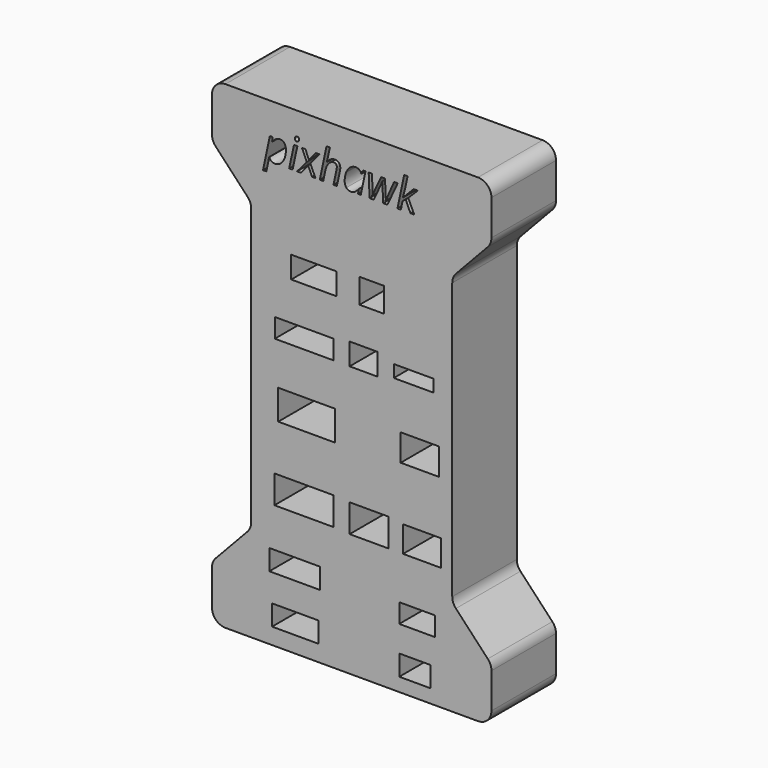
from build123d import *

# Parameters (mm, degrees)
F0_W     = 8.7805232033
F0_H     = 3.873758018
F0_W_2   = 9.555274155
F0_H_2   = 3.873763606
F0_W_3   = 11.139257811
F0_H_3   = 5.2957143635
F0_W_4   = 10.6984956656
F0_H_4   = 5.6368411751
F0_W_5   = 5.9397630394
F0_W_6   = 6.7145144567
F0_H_5   = 3.615507856
F0_W_7   = 7.3465732858
F0_H_6   = 5.2957125008
F0_W_8   = 7.2473669425
F0_H_7   = 5.0616537919
F0_W_9   = 7.1218190715
F0_H_8   = 4.9304906279
F0_W_10  = 11.1047781538
F0_H_9   = 3.615509253
F0_W_11  = 8.5222709458
F0_H_10  = 4.1320119053
F0_W_12  = 5.2375169471
F0_H_11  = 4.1320105083
F0_W_13  = 7.4892668054
F0_H_12  = 2.3242561147
F0_W_14  = 4.6485104831
F0_H_13  = 4.6485122293
F1_DEPTH = 15.24
F2_R     = 2.54


with BuildPart() as f1:
    # F0 (on Front) → F1 (new body)
    with BuildSketch(Plane.XZ):
        Polygon((17.9664100287, -17.1944648609), (17.9664100287, 9.5204214048), (-20.0014543952, 9.5204214048), (-20.0014543952, -17.1944648609), (-27.4009296666, -25.0746466308), (-27.4009296666, -35.2989864186), (25.3658853001, -35.2989864186), (25.3658853001, -25.0746466308), align=None)
        with Locations((-11.6681393676, -30.2961928356)):
            Rectangle(F0_W, F0_H, mode=Mode.SUBTRACT)
        with Locations((-11.7972642158, -21.257421333)):
            Rectangle(F0_W_2, F0_H_2, mode=Mode.SUBTRACT)
        with Locations((-10.042487874, -9.2596154247)):
            Rectangle(F0_W_3, F0_H_3, mode=Mode.SUBTRACT)
        with Locations((-9.5437752291, 5.0418527861)):
            Rectangle(F0_W_4, F0_H_4, mode=Mode.SUBTRACT)
        with Locations((10.928792183, -30.8126931597)):
            Rectangle(F0_W_5, F0_H, mode=Mode.SUBTRACT)
        with Locations((11.3161678917, -22.1612978313)):
            Rectangle(F0_W_6, F0_H_5, mode=Mode.SUBTRACT)
        with Locations((2.2626684538, -9.4422263611)):
            Rectangle(F0_W_7, F0_H_6, mode=Mode.SUBTRACT)
        with Locations((11.8532159856, 5.4444841406)):
            Rectangle(F0_W_8, F0_H_7, mode=Mode.SUBTRACT)
        with Locations((12.236027748, -9.6248372976)):
            Rectangle(F0_W_9, F0_H_8, mode=Mode.SUBTRACT)
        Polygon((-20.0014543952, 9.5204214048), (17.9664100287, 9.5204214048), (17.9664100287, 36.9888431742), (25.3658853001, 44.869024944), (25.3658853001, 55.0933647319), (-27.4009296666, 55.0933647319), (-27.4009296666, 44.869024944), (-20.0014543952, 36.9888431742), align=None)
        with Locations((-9.9895106371, 17.6093027875)):
            Rectangle(F0_W_10, F0_H_9, mode=Mode.SUBTRACT)
        with Locations((-8.1817557777, 28.7140809413)):
            Rectangle(F0_W_11, F0_H_10, mode=Mode.SUBTRACT)
        with BuildLine():
            add(Edge.make_bspline(
                [(-14.4447284097, 45.2859506099), (-14.915105244, 44.9061968355), (-15.5081622748, 44.9061968355)],
                knots=[0, 0, 0, 1, 1, 1], degree=2))
            add(Edge.make_bspline(
                [(-15.5081622748, 44.9061968355), (-15.8817512152, 44.9061968355), (-16.1628676456, 45.0991561397)],
                knots=[0, 0, 0, 1, 1, 1], degree=2))
            add(Edge.make_bspline(
                [(-16.1628676456, 45.0991561397), (-16.443984076, 45.2921154439), (-16.5981049261, 45.6385791148)],
                knots=[0, 0, 0, 1, 1, 1], degree=2))
            Line((-16.5981049261, 45.6385791148), (-16.6363268969, 45.6385791148))
            Line((-16.6363268969, 45.6385791148), (-16.6523554653, 45.4930890324))
            add(Edge.make_bspline(
                [(-16.6523554653, 45.4930890324), (-16.6634521665, 45.3956846552), (-16.6924268863, 45.2224528197)],
                knots=[0, 0, 0, 1, 1, 1], degree=2))
            add(Edge.make_bspline(
                [(-16.6924268863, 45.2224528197), (-16.7214016061, 45.0492209843), (-17.1344454841, 43.0875708054)],
                knots=[0, 0, 0, 1, 1, 1], degree=2))
            Line((-17.1344454841, 43.0875708054), (-17.7731222865, 43.0875708054))
            Line((-17.7731222865, 43.0875708054), (-16.4785071464, 49.2067850342))
            Line((-16.4785071464, 49.2067850342), (-15.9433995552, 49.2067850342))
            Line((-15.9433995552, 49.2067850342), (-16.043269866, 48.4016577137))
            Line((-16.043269866, 48.4016577137), (-16.012445696, 48.4016577137))
            add(Edge.make_bspline(
                [(-16.012445696, 48.4016577137), (-15.3232172548, 49.275831175), (-14.5797382743, 49.275831175)],
                knots=[0, 0, 0, 1, 1, 1], degree=2))
            add(Edge.make_bspline(
                [(-14.5797382743, 49.275831175), (-14.0520284839, 49.275831175), (-13.7474856843, 48.9003927843)],
                knots=[0, 0, 0, 1, 1, 1], degree=2))
            add(Edge.make_bspline(
                [(-13.7474856843, 48.9003927843), (-13.4429428847, 48.5249543937), (-13.4429428847, 47.8468226537)],
                knots=[0, 0, 0, 1, 1, 1], degree=2))
            add(Edge.make_bspline(
                [(-13.4429428847, 47.8468226537), (-13.4429428847, 47.0293656652), (-13.7086472301, 46.3475350248)],
                knots=[0, 0, 0, 1, 1, 1], degree=2))
            add(Edge.make_bspline(
                [(-13.7086472301, 46.3475350248), (-13.9743515755, 45.6657043844), (-14.4447284097, 45.2859506099)],
                knots=[0, 0, 0, 1, 1, 1], degree=2))
        make_face(mode=Mode.SUBTRACT)
        Polygon((-11.276620217, 49.2067850342), (-12.1791519146, 44.9838737439), (-12.8264594847, 44.9838737439), (-11.923927787, 49.2067850342), align=None, mode=Mode.SUBTRACT)
        Polygon((-8.5110756844, 44.9838737439), (-9.2508557645, 46.6557767248), (-10.5836928753, 44.9838737439), (-11.3345696566, 44.9838737439), (-9.5048469253, 47.1612931128), (-10.4258731249, 49.2067850342), (-9.7699347873, 49.2067850342), (-9.1004338149, 47.6199567625), (-7.8280120772, 49.2067850342), (-7.0808341964, 49.2067850342), (-8.834112986, 47.1304689428), (-7.8637681144, 44.9838737439), align=None, mode=Mode.SUBTRACT)
        with BuildLine():
            add(Edge.make_bspline(
                [(-11.6428113566, 50.0174607052), (-11.7426816674, 50.1117826654), (-11.7426816674, 50.2856309842)],
                knots=[0, 0, 0, 1, 1, 1], degree=2))
            add(Edge.make_bspline(
                [(-11.7426816674, 50.2856309842), (-11.7426816674, 50.5014001742), (-11.6193849874, 50.638259489)],
                knots=[0, 0, 0, 1, 1, 1], degree=2))
            add(Edge.make_bspline(
                [(-11.6193849874, 50.638259489), (-11.4960883074, 50.7751188038), (-11.3000465862, 50.7751188038)],
                knots=[0, 0, 0, 1, 1, 1], degree=2))
            add(Edge.make_bspline(
                [(-11.3000465862, 50.7751188038), (-10.9609807162, 50.7751188038), (-10.9609807162, 50.428655133)],
                knots=[0, 0, 0, 1, 1, 1], degree=2))
            add(Edge.make_bspline(
                [(-10.9609807162, 50.428655133), (-10.9609807162, 50.2165848434), (-11.0898257468, 50.0698617942)],
                knots=[0, 0, 0, 1, 1, 1], degree=2))
            add(Edge.make_bspline(
                [(-11.0898257468, 50.0698617942), (-11.2186707774, 49.923138745), (-11.3888201958, 49.923138745)],
                knots=[0, 0, 0, 1, 1, 1], degree=2))
            add(Edge.make_bspline(
                [(-11.3888201958, 49.923138745), (-11.5429410458, 49.923138745), (-11.6428113566, 50.0174607052)],
                knots=[0, 0, 0, 1, 1, 1], degree=2))
        make_face(mode=Mode.SUBTRACT)
        with BuildLine():
            Line((-3.8221029438, 44.9838737439), (-4.4694105138, 44.9838737439))
            Line((-4.4694105138, 44.9838737439), (-3.8985468854, 47.6507809325))
            add(Edge.make_bspline(
                [(-3.8985468854, 47.6507809325), (-3.8295007446, 48.0120402049), (-3.8295007446, 48.1698599553)],
                knots=[0, 0, 0, 1, 1, 1], degree=2))
            add(Edge.make_bspline(
                [(-3.8295007446, 48.1698599553), (-3.8295007446, 48.7407235837), (-4.3954325058, 48.7407235837)],
                knots=[0, 0, 0, 1, 1, 1], degree=2))
            add(Edge.make_bspline(
                [(-4.3954325058, 48.7407235837), (-4.739430243, 48.7407235837), (-5.0649334782, 48.5132412091)],
                knots=[0, 0, 0, 1, 1, 1], degree=2))
            add(Edge.make_bspline(
                [(-5.0649334782, 48.5132412091), (-5.3904367135, 48.2857588345), (-5.6388795237, 47.8523710043)],
                knots=[0, 0, 0, 1, 1, 1], degree=2))
            add(Edge.make_bspline(
                [(-5.6388795237, 47.8523710043), (-5.8873223339, 47.4189831741), (-6.0143179143, 46.8061986744)],
                knots=[0, 0, 0, 1, 1, 1], degree=2))
            Line((-6.0143179143, 46.8061986744), (-6.4039354231, 44.9838737439))
            Line((-6.4039354231, 44.9838737439), (-7.0512429931, 44.9838737439))
            Line((-7.0512429931, 44.9838737439), (-5.7788212555, 50.9797912926))
            Line((-5.7788212555, 50.9797912926), (-5.1315136854, 50.9797912926))
            add(Edge.make_bspline(
                [(-5.1315136854, 50.9797912926), (-5.2017927931, 50.662918825), (-5.2652905833, 50.3663903096)],
                knots=[0, 0, 0, 1, 1, 1], degree=2))
            add(Edge.make_bspline(
                [(-5.2652905833, 50.3663903096), (-5.3287883735, 50.0698617942), (-5.3959850641, 49.7634695444)],
                knots=[0, 0, 0, 1, 1, 1], degree=2))
            add(Edge.make_bspline(
                [(-5.3959850641, 49.7634695444), (-5.4631817547, 49.4570772946), (-5.5420916299, 49.121710325)],
                knots=[0, 0, 0, 1, 1, 1], degree=2))
            add(Edge.make_bspline(
                [(-5.5420916299, 49.121710325), (-5.6210015051, 48.7863433553), (-5.7258036831, 48.3942599129)],
                knots=[0, 0, 0, 1, 1, 1], degree=2))
            Line((-5.7258036831, 48.3942599129), (-5.6826498451, 48.3942599129))
            add(Edge.make_bspline(
                [(-5.6826498451, 48.3942599129), (-5.3201576059, 48.8677191641), (-4.9681455844, 49.0717751695)],
                knots=[0, 0, 0, 1, 1, 1], degree=2))
            add(Edge.make_bspline(
                [(-4.9681455844, 49.0717751695), (-4.616133563, 49.275831175), (-4.2302149546, 49.275831175)],
                knots=[0, 0, 0, 1, 1, 1], degree=2))
            add(Edge.make_bspline(
                [(-4.2302149546, 49.275831175), (-3.7259315334, 49.275831175), (-3.4503634536, 48.9984136449)],
                knots=[0, 0, 0, 1, 1, 1], degree=2))
            add(Edge.make_bspline(
                [(-3.4503634536, 48.9984136449), (-3.1747953737, 48.7209961149), (-3.1747953737, 48.2130137933)],
                knots=[0, 0, 0, 1, 1, 1], degree=2))
            add(Edge.make_bspline(
                [(-3.1747953737, 48.2130137933), (-3.1747953737, 47.9738182341), (-3.2635689833, 47.5731040241)],
                knots=[0, 0, 0, 1, 1, 1], degree=2))
            add(Edge.make_bspline(
                [(-3.2635689833, 47.5731040241), (-3.413990933, 46.8296250436), (-3.8221029438, 44.9838737439)],
                knots=[0, 0, 0, 1, 1, 1], degree=2))
        make_face(mode=Mode.SUBTRACT)
        with Locations((1.2081402845, 17.8675534151)):
            Rectangle(F0_W_12, F0_H_11, mode=Mode.SUBTRACT)
        with Locations((10.6705415553, 17.7384281013)):
            Rectangle(F0_W_13, F0_H_12, mode=Mode.SUBTRACT)
        with Locations((2.7938961891, 28.9723311033)):
            Rectangle(F0_W_14, F0_H_13, mode=Mode.SUBTRACT)
        with BuildLine():
            add(Edge.make_bspline(
                [(-1.3173308894, 48.8948444337), (-0.835857354, 49.2844619426), (-0.2612948252, 49.2844619426)],
                knots=[0, 0, 0, 1, 1, 1], degree=2))
            add(Edge.make_bspline(
                [(-0.2612948252, 49.2844619426), (0.0925666464, 49.2844619426), (0.3699841764, 49.0933520886)],
                knots=[0, 0, 0, 1, 1, 1], degree=2))
            add(Edge.make_bspline(
                [(0.3699841764, 49.0933520886), (0.6474017065, 48.9022422345), (0.8015225565, 48.5446818625)],
                knots=[0, 0, 0, 1, 1, 1], degree=2))
            Line((0.8015225565, 48.5446818625), (0.8446763945, 48.5446818625))
            Line((0.8446763945, 48.5446818625), (1.1023664557, 49.2067850342))
            Line((1.1023664557, 49.2067850342), (1.5918542753, 49.2067850342))
            Line((1.5918542753, 49.2067850342), (0.6942544449, 44.9838737439))
            Line((0.6942544449, 44.9838737439), (0.181340256, 44.9838737439))
            Line((0.181340256, 44.9838737439), (0.2824435336, 45.7890010644))
            Line((0.2824435336, 45.7890010644), (0.2516193636, 45.7890010644))
            add(Edge.make_bspline(
                [(0.2516193636, 45.7890010644), (-0.4388420444, 44.9061968355), (-1.2020484936, 44.9061968355)],
                knots=[0, 0, 0, 1, 1, 1], degree=2))
            add(Edge.make_bspline(
                [(-1.2020484936, 44.9061968355), (-1.7371560849, 44.9061968355), (-2.0416988845, 45.2878000601)],
                knots=[0, 0, 0, 1, 1, 1], degree=2))
            add(Edge.make_bspline(
                [(-2.0416988845, 45.2878000601), (-2.3462416841, 45.6694032848), (-2.3462416841, 46.3327394232)],
                knots=[0, 0, 0, 1, 1, 1], degree=2))
            add(Edge.make_bspline(
                [(-2.3462416841, 46.3327394232), (-2.3462416841, 47.1341678432), (-2.0725230545, 47.8196973841)],
                knots=[0, 0, 0, 1, 1, 1], degree=2))
            add(Edge.make_bspline(
                [(-2.0725230545, 47.8196973841), (-1.7988044249, 48.5052269249), (-1.3173308894, 48.8948444337)],
                knots=[0, 0, 0, 1, 1, 1], degree=2))
        make_face(mode=Mode.SUBTRACT)
        with BuildLine():
            Line((5.7272249227, 44.9838737439), (4.9368932039, 44.9838737439))
            Line((4.9368932039, 44.9838737439), (4.8135965239, 47.3030842949))
            add(Edge.make_bspline(
                [(4.8135965239, 47.3030842949), (4.7975679555, 47.6655765341), (4.7975679555, 47.9664204333)],
                knots=[0, 0, 0, 1, 1, 1], degree=2))
            Line((4.7975679555, 47.9664204333), (4.7975679555, 48.5668752649))
            Line((4.7975679555, 48.5668752649), (4.7630448851, 48.5668752649))
            Line((4.7630448851, 48.5668752649), (4.5707020643, 48.1131434825))
            Line((4.5707020643, 48.1131434825), (4.251363663, 47.3844601037))
            Line((4.251363663, 47.3844601037), (3.129363875, 44.9838737439))
            Line((3.129363875, 44.9838737439), (2.3513618241, 44.9838737439))
            Line((2.3513618241, 44.9838737439), (2.1861442729, 49.2067850342))
            Line((2.1861442729, 49.2067850342), (2.8174232746, 49.2067850342))
            Line((2.8174232746, 49.2067850342), (2.8864694154, 46.9183986532))
            Line((2.8864694154, 46.9183986532), (2.8864694154, 46.5793327832))
            add(Edge.make_bspline(
                [(2.8864694154, 46.5793327832), (2.8864694154, 46.0121680552), (2.8556452454, 45.5424077044)],
                knots=[0, 0, 0, 1, 1, 1], degree=2))
            Line((2.8556452454, 45.5424077044), (2.8790716146, 45.5424077044))
            add(Edge.make_bspline(
                [(2.8790716146, 45.5424077044), (3.0603177342, 46.0207988228), (3.406781405, 46.7827723052)],
                knots=[0, 0, 0, 1, 1, 1], degree=2))
            Line((3.406781405, 46.7827723052), (4.5435767947, 49.2067850342))
            Line((4.5435767947, 49.2067850342), (5.2451349039, 49.2067850342))
            Line((5.2451349039, 49.2067850342), (5.3881590527, 46.9183986532))
            add(Edge.make_bspline(
                [(5.3881590527, 46.9183986532), (5.4103524551, 46.2710910832), (5.4103524551, 45.908598844)],
                knots=[0, 0, 0, 1, 1, 1], degree=2))
            Line((5.4103524551, 45.908598844), (5.4103524551, 45.7039263552))
            Line((5.4103524551, 45.7039263552), (5.4029546543, 45.5424077044))
            Line((5.4029546543, 45.5424077044), (5.4263810235, 45.5424077044))
            add(Edge.make_bspline(
                [(5.4263810235, 45.5424077044), (5.5336491351, 45.8740757736), (5.7457194247, 46.3845240288)],
                knots=[0, 0, 0, 1, 1, 1], degree=2))
            add(Edge.make_bspline(
                [(5.7457194247, 46.3845240288), (5.9577897143, 46.894972284), (6.9910158928, 49.2067850342)],
                knots=[0, 0, 0, 1, 1, 1], degree=2))
            Line((6.9910158928, 49.2067850342), (7.6765454336, 49.2067850342))
            Line((7.6765454336, 49.2067850342), (5.7272249227, 44.9838737439))
        make_face(mode=Mode.SUBTRACT)
        with BuildLine():
            Line((8.6481232721, 47.1378667436), (8.6629188737, 47.1378667436))
            Line((8.6629188737, 47.1378667436), (10.689916293, 49.2067850342))
            Line((10.689916293, 49.2067850342), (11.4642194434, 49.2067850342))
            Line((11.4642194434, 49.2067850342), (9.6579230813, 47.4078864729))
            Line((9.6579230813, 47.4078864729), (10.7934855042, 44.9838737439))
            Line((10.7934855042, 44.9838737439), (10.073432893, 44.9838737439))
            Line((10.073432893, 44.9838737439), (9.1684352617, 47.0034733624))
            Line((9.1684352617, 47.0034733624), (8.5827760317, 46.5287811444))
            Line((8.5827760317, 46.5287811444), (8.2659035641, 44.9838737439))
            Line((8.2659035641, 44.9838737439), (7.6111981932, 44.9838737439))
            Line((7.6111981932, 44.9838737439), (8.8823869641, 50.9797912926))
            Line((8.8823869641, 50.9797912926), (9.5383253017, 50.9797912926))
            add(Edge.make_bspline(
                [(9.5383253017, 50.9797912926), (9.2609077717, 49.6851761526), (9.0408231979, 48.6599642583)],
                knots=[0, 0, 0, 1, 1, 1], degree=2))
            add(Edge.make_bspline(
                [(9.0408231979, 48.6599642583), (8.8207386241, 47.6347523641), (8.6481232721, 47.1378667436)],
                knots=[0, 0, 0, 1, 1, 1], degree=2))
        make_face(mode=Mode.SUBTRACT)
    extrude(amount=F1_DEPTH)

    # F2
    f2_edges = [f1.edges().sort_by_distance(p)[0] for p in [
        (-27.40093, -7.62, 44.869025),
        (-27.40093, -7.62, 55.093365),
        (-20.001454, -7.62, 36.988843),
        (-20.001454, -7.62, -17.194465),
        (-27.40093, -7.62, -25.074647),
        (-27.40093, -7.62, -35.298986),
        (25.365885, -7.62, -35.298986),
        (25.365885, -7.62, -25.074647),
        (17.96641, -7.62, -17.194465),
        (17.96641, -7.62, 36.988843),
        (25.365885, -7.62, 44.869025),
        (25.365885, -7.62, 55.093365),
    ]]
    fillet(f2_edges, radius=F2_R)


solid = f1.part
